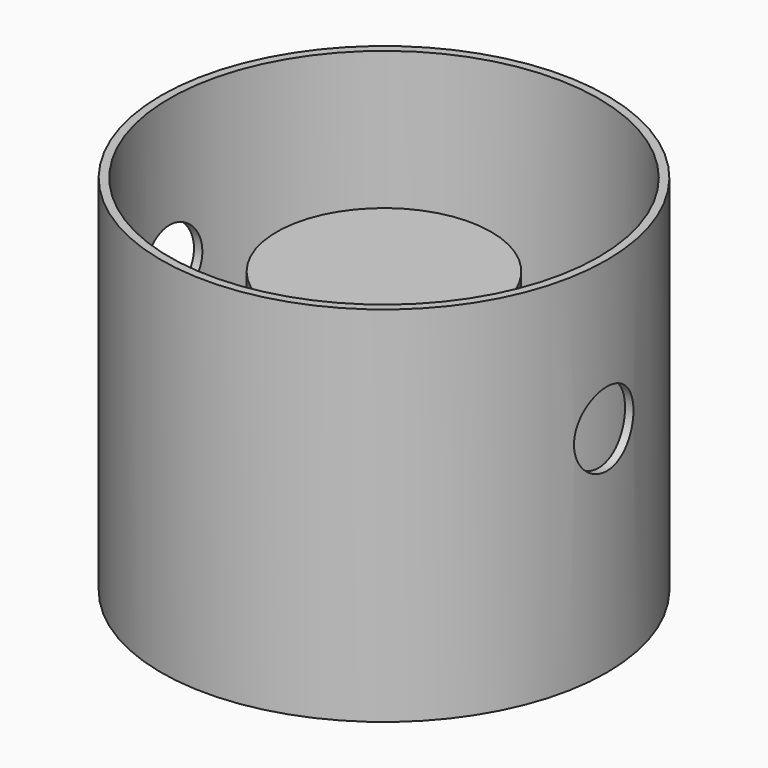
from build123d import *

# Parameters (mm, degrees)
SKETCH_R        = 13.5
PAD_DEPTH       = 1
SKETCH001_R     = 13.5
SKETCH001_R_2   = 13
PAD001_DEPTH    = 21
SKETCH002_R     = 6.5
PAD002_DEPTH    = 16
SKETCH003_R     = 2.25
POCKET_DEPTH    = 15.5
POCKET_FACE11_R = 6.5
PAD003_DEPTH    = 16


with BuildPart() as part:
    # Sketch → Pad (new body)
    with BuildSketch(Plane.XY):
        Circle(SKETCH_R)
    extrude(amount=PAD_DEPTH)

    # Sketch001 (on Face3 of Pad) → Pad001 (join)
    with BuildSketch(Plane.XY.offset(1)):
        Circle(SKETCH001_R)
        Circle(SKETCH001_R_2, mode=Mode.SUBTRACT)
    extrude(amount=PAD001_DEPTH)

    # Sketch002 (on Face6 of Pad001) → Pad002 (join)
    with BuildSketch(Plane.XY.offset(1)):
        Circle(SKETCH002_R)
    extrude(amount=PAD002_DEPTH)

    # Sketch003 → Pocket (cut, symmetric)
    with BuildSketch(Plane.YZ):
        with Locations((0, 13)):
            Circle(SKETCH003_R)
    extrude(amount=POCKET_DEPTH, both=True, mode=Mode.SUBTRACT)

    # Pocket Face11 → Pad003 (add)
    with BuildSketch(Plane(origin=(0, 0, 17), x_dir=(0, 1, 0), z_dir=(0, 0, 1))):
        Circle(POCKET_FACE11_R)
    extrude(amount=-PAD003_DEPTH)


solid = part.part
